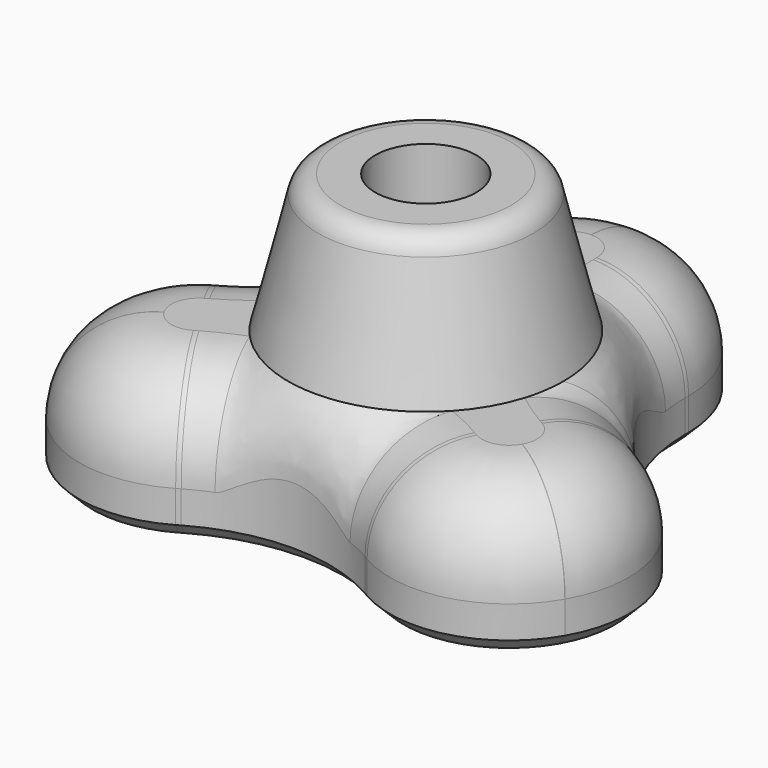
from build123d import *

# Parameters (mm, degrees)
PAD_DEPTH       = 6
FILLET_R        = 8
FILLET001_R     = 5.19
FILLET002_R     = 4
SKETCH002_R     = 2.2
POCKET_DEPTH    = 12.001
POCKET001_DEPTH = 3.3
SKETCH005_R     = 2.2
PAD001_DEPTH    = 0.3
FILLET003_R     = 1
CHAMFER_SIZE    = 0.6
CHAMFER001_SIZE = 0.6


with BuildPart() as revolution:
    # Sketch004 → Revolution (revolve)
    with BuildSketch(Plane.XZ):
        Polygon((4.5, 12), (0, 12), (0, 6), (6, 6), align=None)
    revolve(axis=Axis((0, 0, 0), (0, 0, 1)))


with BuildPart() as chamfer001:
    # Sketch → Pad (new body)
    with BuildSketch(Plane.XY):
        Polygon((-5.196152, 3), (-5.196152, 13), (5.196152, 13), (5.196152, 3), (13.856406, -2), (8.660254, -11), (0, -6), (-8.660254, -11), (-13.856406, -2), align=None)
    extrude(amount=PAD_DEPTH)

    # Fillet
    fillet_edges = [chamfer001.edges().sort_by_distance(p)[0] for p in [
        (-5.196152, 3, 3),
        (5.196152, 3, 3),
        (0, -6, 3),
    ]]
    fillet(fillet_edges, radius=FILLET_R)

    # Fusion: union Revolution
    add(revolution.part)

    # Fillet001
    fillet001_edges = [chamfer001.edges().sort_by_distance(p)[0] for p in [
        (-8.660254, -11, 3),
        (-13.856406, -2, 3),
        (-5.196152, 13, 3),
        (5.196152, 13, 3),
        (13.856406, -2, 3),
        (8.660254, -11, 3),
    ]]
    fillet(fillet001_edges, radius=FILLET001_R)

    # Fillet002
    fillet002_edges = [chamfer001.edges().sort_by_distance(p)[0] for p in [
        (6.267949, 3.618802, 6),
    ]]
    fillet(fillet002_edges, radius=FILLET002_R)

    # Sketch002 → Pocket (cut, through all)
    with BuildSketch(Plane.XY.offset(12)):
        Circle(SKETCH002_R)
    extrude(amount=-POCKET_DEPTH, mode=Mode.SUBTRACT)

    # Sketch003 → Pocket001 (cut)
    with BuildSketch(Plane(origin=(0, 0, 0), x_dir=(1, 0, 0), z_dir=(0, 0, -1))):
        Polygon((4.070319, 0), (2.03516, 3.525), (-2.03516, 3.525), (-4.070319, 0), (-2.03516, -3.525), (2.03516, -3.525), align=None)
    extrude(amount=-POCKET001_DEPTH, mode=Mode.SUBTRACT)

    # Sketch005 → Pad001 (new body)
    with BuildSketch(Plane(origin=(0, 0, 3.3), x_dir=(1, 0, 0), z_dir=(0, 0, -1))):
        Circle(SKETCH005_R)
    extrude(amount=-PAD001_DEPTH)

    # Fillet003
    fillet003_edges = [chamfer001.edges().sort_by_distance(p)[0] for p in [
        (-4.5, 0, 12),
    ]]
    fillet(fillet003_edges, radius=FILLET003_R)

    # Chamfer
    chamfer_edges = [chamfer001.edges().sort_by_distance(p)[0] for p in [
        (-6.267949, 3.618802, 0),
    ]]
    chamfer(chamfer_edges, length=CHAMFER_SIZE)

    # Chamfer001
    chamfer001_edges = [chamfer001.edges().sort_by_distance(p)[0] for p in [
        (3.05274, 1.7625, 0),
        (0, 3.525, 0),
        (-3.05274, 1.7625, 0),
        (-3.05274, -1.7625, 0),
        (0, -3.525, 0),
        (3.05274, -1.7625, 0),
    ]]
    chamfer(chamfer001_edges, length=CHAMFER001_SIZE)


solid = chamfer001.part
